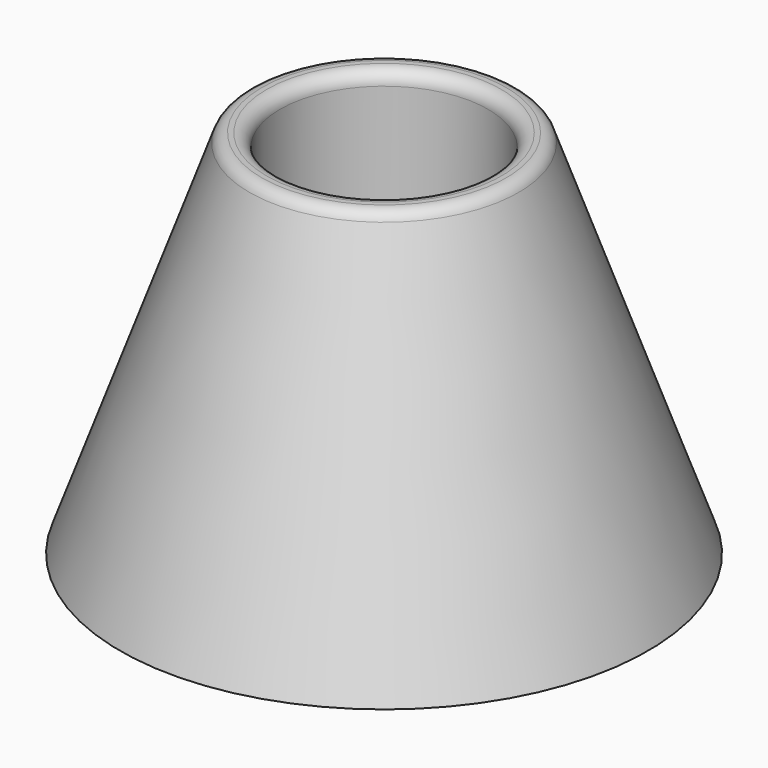
from build123d import *

# Parameters (mm, degrees)
F2_R = 3
F3_R = 5
F4_R = 5


with BuildPart() as f1:
    # F0 (on Front) → F1 (revolve)
    with BuildSketch(Plane.XZ):
        Polygon((0, -32.151528), (0, -27.619155), (-23.653328, -27.619155), (-23.653328, 42.915918), (-29.885342, 42.915918), (-59.948665, -41.193824), (-55.434137, -41.193824), (-27.90243, 35.55081), (-27.90243, -32.151528), (-23.370055, -32.151528), align=None)
    revolve(axis=Axis((0, 0, -29.885341), (0, 0, -1)))

    # F2
    f2_edges = [f1.edges().sort_by_distance(p)[0] for p in [
        (29.885342, 0, 42.915918),
        (23.653328, 0, 42.915918),
    ]]
    fillet(f2_edges, radius=F2_R)

    # F3
    f3_edges = [f1.edges().sort_by_distance(p)[0] for p in [
        (23.653328, 0, -27.619155),
    ]]
    fillet(f3_edges, radius=F3_R)

    # F4
    f4_edges = [f1.edges().sort_by_distance(p)[0] for p in [
        (27.90243, 0, -32.151528),
    ]]
    fillet(f4_edges, radius=F4_R)


solid = f1.part
